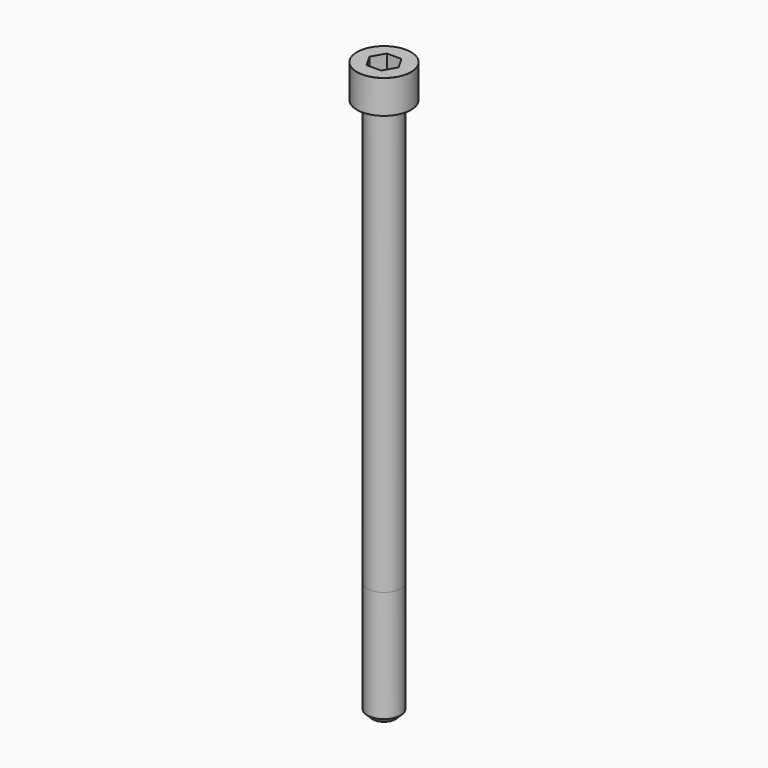
from build123d import *

# Parameters (mm, degrees)
POCKET_DEPTH = 6.06


with BuildPart() as part:
    # Sketch → Revolve (revolve)
    with BuildSketch(Plane.YZ):
        with BuildLine():
            Line((3.999, 0), (6.5, 0))
            Line((6.5, 0), (6.5, 7.97229))
            ThreePointArc((6.5, 7.97229), (6.491884, 7.991884), (6.47229, 8))
            Line((6.47229, 8), (0, 8))
            Line((0, -130), (0, 8))
            Line((2.75, -130), (0, -130))
            Line((4, -128.75), (2.75, -130))
            Line((4, -102), (4, -128.75))
            Line((3.999, 0), (4, -102))
        make_face()
    revolve(axis=Axis((0, 0, 0), (0, 0, 1)))

    # Sketch001 → Pocket (cut)
    with BuildSketch(Plane.XY.offset(8)):
        Polygon((3.498743, 0), (1.749371, 3.03), (-1.749371, 3.03), (-3.498743, 0), (-1.749371, -3.03), (1.749371, -3.03), align=None)
    extrude(amount=-POCKET_DEPTH, mode=Mode.SUBTRACT)


solid = part.part
